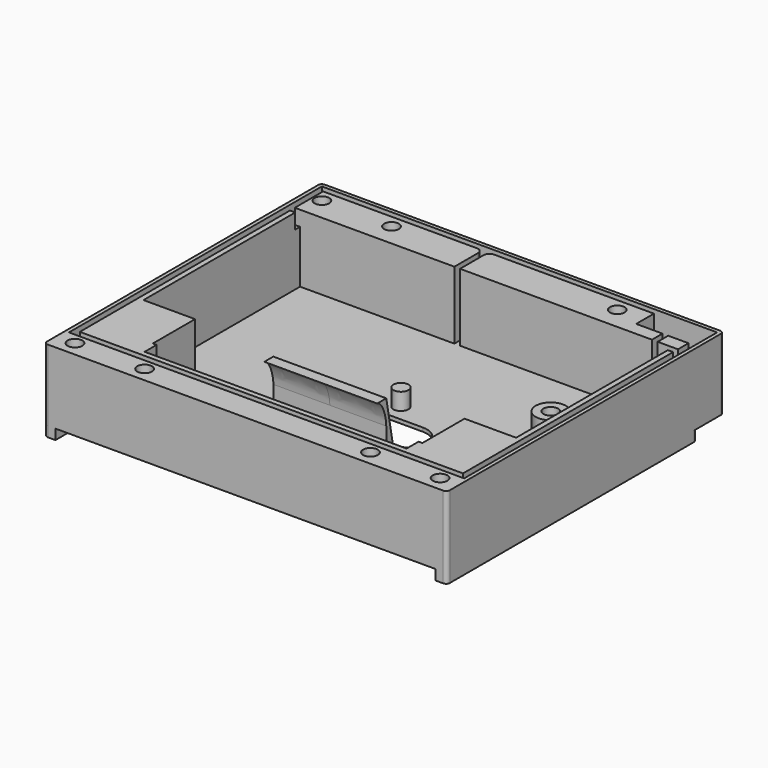
from build123d import *

# Parameters (mm, degrees)
PAD011_DEPTH      = 1
SKETCH020_W       = 99
SKETCH020_H       = 70
PAD012_DEPTH      = 19
POCKET008_DEPTH   = 18
SKETCH023_R       = 4
SKETCH023_R_2     = 1.95
SKETCH023_R_3     = 2
PAD013_DEPTH      = 5.5
SKETCH024_R       = 1.95
POCKET010_DEPTH   = 8
PAD017_DEPTH      = 2.7
POCKET013_DEPTH   = 19
POCKET020_DEPTH   = 4
PAD033_START      = 34.8
PAD033_DEPTH      = 1
PAD034_START      = -34.8
PAD034_DEPTH      = 1
PAD035_START      = -35.8
SKETCH060_W       = 18
SKETCH060_H       = 18
PAD035_DEPTH      = 14
PAD036_START      = 35.8
PAD036_DEPTH      = 14
PAD037_DEPTH      = 15
PAD037_DEPTH_BACK = 15


with BuildPart() as part:
    # Sketch019 → Pad011 (new body)
    with BuildSketch(Plane.XY):
        with BuildLine():
            Line((-53.5, 45), (-53.5, -45))
            ThreePointArc((-53.5, -45), (-53.207107, -45.707107), (-52.5, -46))
            Line((-52.5, -46), (52.5, -46))
            ThreePointArc((52.5, -46), (53.207107, -45.707107), (53.5, -45))
            Line((53.5, -45), (53.5, 45))
            ThreePointArc((53.5, 45), (53.207107, 45.707107), (52.5, 46))
            Line((52.5, 46), (-52.5, 46))
            ThreePointArc((-52.5, 46), (-53.207107, 45.707107), (-53.5, 45))
        make_face()
    extrude(amount=PAD011_DEPTH)

    # Sketch020 → Pad012 (join)
    with BuildSketch(Plane.XY):
        with BuildLine():
            Line((-53.5, 45), (-53.5, -45))
            ThreePointArc((-53.5, -45), (-53.207107, -45.707107), (-52.5, -46))
            Line((-52.5, -46), (52.5, -46))
            ThreePointArc((52.5, -46), (53.207107, -45.707107), (53.5, -45))
            Line((53.5, -45), (53.5, 45))
            ThreePointArc((53.5, 45), (53.207107, 45.707107), (52.5, 46))
            Line((52.5, 46), (-52.5, 46))
            ThreePointArc((-52.5, 46), (-53.207107, 45.707107), (-53.5, 45))
        make_face()
        with Locations((0, -1)):
            Rectangle(SKETCH020_W, SKETCH020_H, mode=Mode.SUBTRACT)
    extrude(amount=PAD012_DEPTH)

    # Sketch021 (on Face14 of Pad012) → Pocket008 (cut)
    with BuildSketch(Plane.XY.offset(19)):
        with BuildLine():
            Line((-52.5, 45), (-52.5, 43.4))
            Line((-52.5, 43.4), (-10, 43.4))
            ThreePointArc((-8.5, 41.9), (-8.93934, 42.96066), (-10, 43.4))
            Line((-8.5, 41.9), (-8.5, 34))
            Line((-8.5, 34), (-7, 34))
            Line((-7, 34), (-7, 41.9))
            ThreePointArc((-5.5, 43.4), (-6.56066, 42.96066), (-7, 41.9))
            Line((-5.5, 43.4), (37, 43.4))
            Line((37, 43.4), (37, 37.5))
            Line((37, 37.5), (44, 37.5))
            Line((44, 37.5), (44, 34))
            Line((45.5, 34), (44, 34))
            Line((45.5, 37.5), (45.5, 34))
            Line((45.5, 37.5), (52.5, 37.5))
            Line((52.5, 45), (52.5, 37.5))
            Line((52.5, 45), (-52.5, 45))
        make_face()
    extrude(amount=-POCKET008_DEPTH, mode=Mode.SUBTRACT)

    # Sketch023 → Pad013 (join)
    with BuildSketch(Plane.XY):
        with Locations((31.5, 16)):
            Circle(SKETCH023_R)
        with Locations((31.5, 16)):
            Circle(SKETCH023_R_2, mode=Mode.SUBTRACT)
        with Locations((31.5, -6)):
            Circle(SKETCH023_R)
        with Locations((31.5, -6)):
            Circle(SKETCH023_R_2, mode=Mode.SUBTRACT)
        with Locations((0.5, 5)):
            Circle(SKETCH023_R_3)
    extrude(amount=PAD013_DEPTH)

    # Sketch024 (on Face14 of Pad013) → Pocket010 (cut)
    with BuildSketch(Plane.XY.offset(19)):
        with Locations((-48.5, -42)):
            Circle(SKETCH024_R)
        with Locations((-30, -42)):
            Circle(SKETCH024_R)
        with Locations((30, -42)):
            Circle(SKETCH024_R)
        with Locations((-48.5, 40)):
            Circle(SKETCH024_R)
        with Locations((-30, 40)):
            Circle(SKETCH024_R)
        with Locations((30, 40)):
            Circle(SKETCH024_R)
        with Locations((48.5, -42)):
            Circle(SKETCH024_R)
    extrude(amount=-POCKET010_DEPTH, mode=Mode.SUBTRACT)

    # Sketch025 (on Face4 of Pocket010) → Pad017 (join)
    with BuildSketch(Plane(origin=(0, 0, 0), x_dir=(1, 0, 0), z_dir=(0, 0, -1))):
        with BuildLine():
            Line((-50.500005, -36), (50.499995, -36))
            Line((50.499995, -36), (50.499995, 46))
            Line((52.5, 46), (50.499995, 46))
            ThreePointArc((53.5, 45), (53.207107, 45.707107), (52.5, 46))
            Line((53.5, -36), (53.5, 45))
            ThreePointArc((52.5, -37), (53.207107, -36.707107), (53.5, -36))
            Line((-52.5, -37), (52.5, -37))
            ThreePointArc((-53.5, -36), (-53.207107, -36.707107), (-52.5, -37))
            Line((-53.5, 45), (-53.5, -36))
            ThreePointArc((-52.500009, 46), (-53.20711, 45.707104), (-53.5, 45))
            Line((-52.500009, 46), (-50.500005, 46))
            Line((-50.500005, 46), (-50.500005, -36))
        make_face()
    extrude(amount=PAD017_DEPTH)

    # Sketch026 → Pocket013 (cut)
    with BuildSketch(Plane.XY):
        with BuildLine():
            ThreePointArc((-10, 0.5), (-15, -4.5), (-10, -9.5))
            Line((-10, -9.5), (10, -9.5))
            ThreePointArc((10, -9.5), (15, -4.5), (10, 0.5))
            Line((-10, 0.5), (10, 0.5))
        make_face()
    extrude(amount=POCKET013_DEPTH, mode=Mode.SUBTRACT)

    # Sketch053 (on Face18 of Pocket013) → Pocket020 (cut)
    with BuildSketch(Plane.XY.offset(19)):
        Polygon((-52.5, 43.4), (-52.5, -39), (52.5, -39), (52.5, 37.5), (50.9, 37.5), (50.9, 34), (47.9, 34), (47.9, 32.4), (50.9, 32.4), (50.9, -37.4), (-50.9, -37.4), (-50.9, 32.4), (-47.9, 32.4), (-47.9, 34), (-50.9, 34), (-50.9, 43.4), align=None)
    extrude(amount=-POCKET020_DEPTH, mode=Mode.SUBTRACT)

    # Sketch059 → Pad033 (join)
    with BuildSketch(Plane.YZ.offset(PAD033_START)):
        Polygon((-36, 19), (-36, 1), (-18, 1), (-18, 4), (-32, 4), (-32, 19), align=None)
    extrude(amount=PAD033_DEPTH)

    # Sketch059 → Pad034 (join)
    with BuildSketch(Plane.YZ.offset(PAD034_START)):
        Polygon((-36, 19), (-36, 1), (-18, 1), (-18, 4), (-32, 4), (-32, 19), align=None)
    extrude(amount=-PAD034_DEPTH)

    # Sketch060 → Pad035 (join)
    with BuildSketch(Plane.YZ.offset(PAD035_START)):
        with Locations((-27, 10)):
            Rectangle(SKETCH060_W, SKETCH060_H)
    extrude(amount=-PAD035_DEPTH)

    # Sketch060 → Pad036 (join)
    with BuildSketch(Plane.YZ.offset(PAD036_START)):
        with Locations((-27, 10)):
            Rectangle(SKETCH060_W, SKETCH060_H)
    extrude(amount=PAD036_DEPTH)

    # Sketch056 → Pad037 (join, two sides)
    with BuildSketch(Plane.YZ) as pad037_sk:
        with BuildLine():
            add(Edge.make_bspline(
                [(-21, 17), (-18, 17), (-18, 10.5)],
                knots=[0, 0, 0, 1, 1, 1], degree=2, weights=[1, 0.5, 1]))
            Line((-18, 10.5), (-18, 1))
            Line((-18, 1), (-15, 1))
            Line((-15, 1), (-18, 17))
            Line((-18, 17), (-21, 17))
        make_face()
    extrude(amount=PAD037_DEPTH)
    extrude(pad037_sk.sketch, amount=-PAD037_DEPTH_BACK)


solid = part.part
